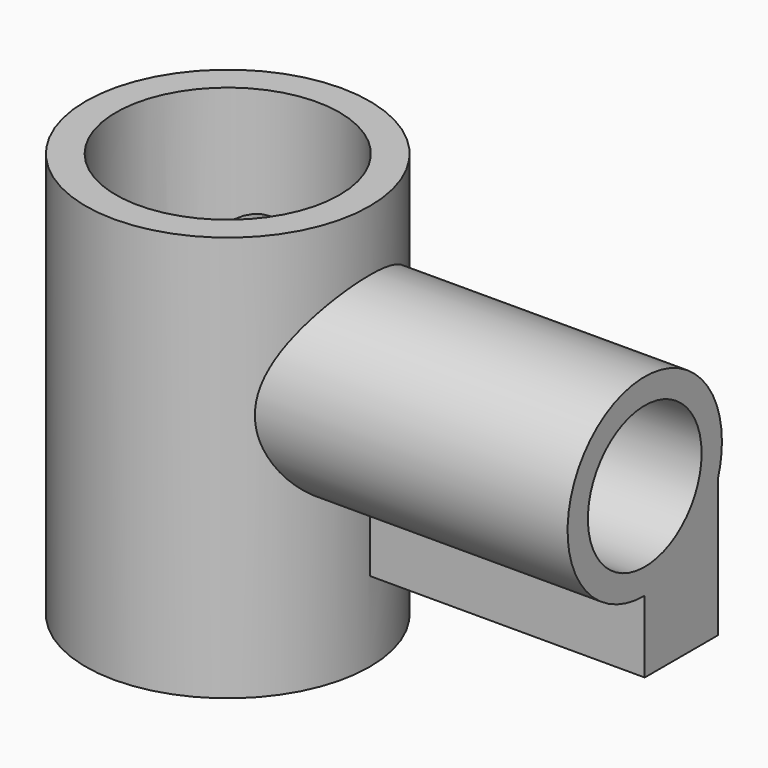
from build123d import *

# Parameters (mm, degrees)
F0_R     = 68.9306074925
F0_R_2   = 54.2522801739
F1_DEPTH = 196.7971026897
F3_DEPTH = 202.3541331291
F4_R     = 34.4816495033
F5_DEPTH = 250.7874369621


with BuildPart() as f1:
    # F0 (on Top) → F1 (new body)
    with BuildSketch(Plane.XY):
        Circle(F0_R)
        Circle(F0_R_2, mode=Mode.SUBTRACT)
    extrude(amount=F1_DEPTH)

    # F2 (on Right) → F3 (join)
    with BuildSketch(Plane.YZ):
        with BuildLine():
            Line((0, 73.7437401834), (0, 120.5569505692))
            Line((0, 120.5569505692), (44.4016605616, 120.5569505692))
            Line((44.4016605616, 120.5569505692), (44.4016605616, 105.725591697))
            ThreePointArc((44.4016605616, 105.725591697), (46.2063899475, 113.043882312), (46.8132103857, 120.5569505692))
            ThreePointArc((46.8132103857, 120.5569505692), (-33.1019385129, 153.658889082), (0, 73.7437401834))
        make_face()
        with BuildLine():
            Line((44.4016605616, 120.5569505692), (0, 120.5569505692))
            Line((0, 120.5569505692), (0, 73.7437401834))
            ThreePointArc((0, 73.7437401834), (27.3603101539, 82.5715573909), (44.4016605616, 105.725591697))
            Line((44.4016605616, 105.725591697), (44.4016605616, 120.5569505692))
        make_face()
        with BuildLine():
            ThreePointArc((44.4016605616, 105.725591697), (27.3603101539, 82.5715573909), (0, 73.7437401834))
            Line((0, 73.7437401834), (0, 38.8107895851))
            Line((0, 38.8107895851), (44.4016605616, 38.8107895851))
            Line((44.4016605616, 38.8107895851), (44.4016605616, 105.725591697))
        make_face()
    extrude(amount=F3_DEPTH)

    # F4 (on face) → F5 (cut)
    with BuildSketch(Plane.YZ.offset(202.3541331291)):
        with Locations((0, 120.5569505692)):
            Circle(F4_R)
    extrude(amount=-F5_DEPTH, mode=Mode.SUBTRACT)


solid = f1.part
